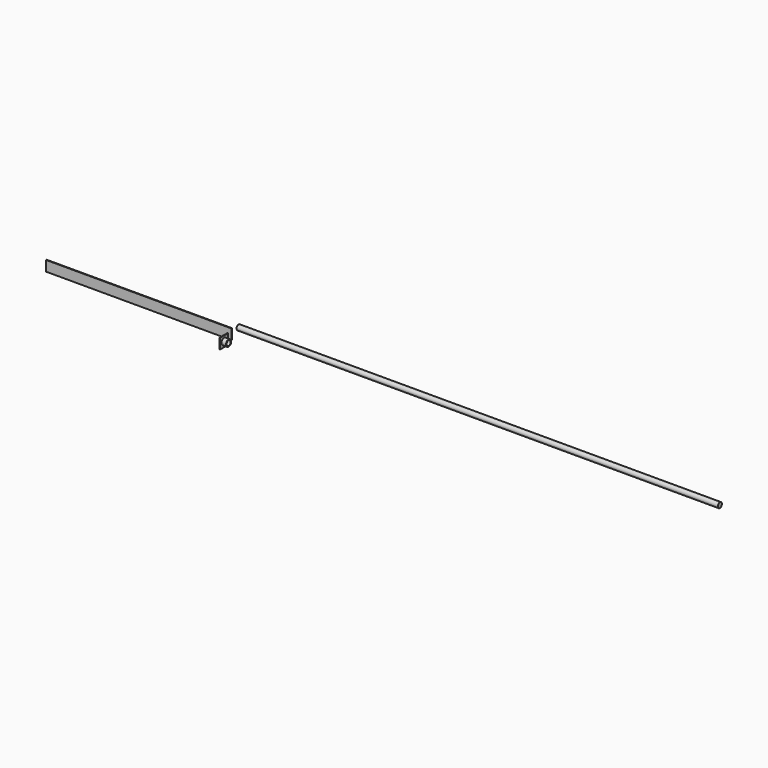
from build123d import *

# Parameters (mm, degrees)
F0_W     = 914.4
F0_H     = 50.8
F1_DEPTH = 3.175
F2_W     = 50.8
F2_H     = 50.8
F2_R     = 15.875
F3_DEPTH = 3.175
F2_R_2   = 12.7
F4_DEPTH = 25.4
F5_R     = 12.7
F6_DEPTH = 2371.09


with BuildPart() as f1:
    # F0 (on Front) → F1 (new body)
    with BuildSketch(Plane.XZ):
        with Locations((-457.2, 25.4)):
            Rectangle(F0_W, F0_H)
    extrude(amount=F1_DEPTH)


with BuildPart() as f3:
    # F2 (on Right) → F3 (new body)
    with BuildSketch(Plane.YZ):
        with Locations((-53.99437, 16.662638)):
            Rectangle(F2_W, F2_H)
        with Locations((-53.99437, 16.662638)):
            Circle(F2_R, mode=Mode.SUBTRACT)
    extrude(amount=F3_DEPTH)

    # F2 (on Right) → F4 (join)
    with BuildSketch(Plane.YZ):
        with Locations((-53.99437, 16.662638)):
            Circle(F2_R)
        with Locations((-53.99437, 16.662638)):
            Circle(F2_R_2, mode=Mode.SUBTRACT)
    extrude(amount=F4_DEPTH)


with BuildPart() as f6:
    # F5 (on Right) → F6 (new body)
    with BuildSketch(Plane.YZ):
        with Locations((39.508425, 38.45923)):
            Circle(F5_R)
    extrude(amount=F6_DEPTH)


solid = Compound([f1.part, f3.part, f6.part])
